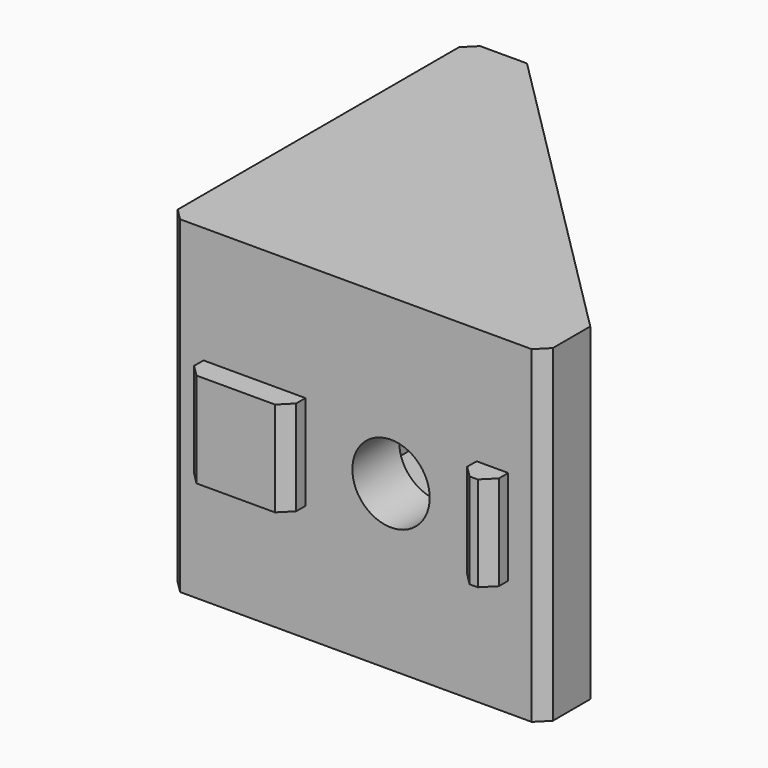
from build123d import *

# Parameters (mm, degrees)
F1_DEPTH  = 28
F2_W      = 27
F2_H      = 20
F3_DEPTH  = 27
F5_D      = 6.6
F7_D      = 6.6
F8_W      = 2.7
F8_H      = 8.1
F8_W_2    = 8.7
F9_DEPTH  = 2
F10_W     = 2.7
F10_H     = 8.1
F10_W_2   = 8.7
F11_DEPTH = 2
F12_SIZE  = 1
F13_W     = 2
F13_H     = 20
F14_DEPTH = 2.5


with BuildPart() as f1:
    # F0 (on Top) → F1 (new body)
    with BuildSketch(Plane.XY):
        Polygon((0, 32), (0, 0), (32, 0), (32, 5), (5, 32), align=None)
    extrude(amount=F1_DEPTH)

    # F2 (on face) → F3 (cut, through all)
    with BuildSketch(Plane.YZ.offset(32)):
        with Locations((18.5, 14)):
            Rectangle(F2_W, F2_H)
    extrude(amount=-F3_DEPTH, mode=Mode.SUBTRACT)

    # F5 (through all)
    with Locations(Plane.YZ.offset(5)):
        with Locations((19, 14)):
            Hole(F5_D / 2)

    # F7 (through all)
    with Locations(Plane(origin=(0, 5, 0), x_dir=(-1, 0, 0), z_dir=(0, 1, 0))):
        with Locations((-19, 14)):
            Hole(F7_D / 2)

    # F8 (on face) → F9 (join)
    with BuildSketch(Plane.XZ):
        with Locations((27.65, 14)):
            Rectangle(F8_W, F8_H)
        with Locations((7.35, 14)):
            Rectangle(F8_W_2, F8_H)
    extrude(amount=F9_DEPTH)

    # F10 (on face) → F11 (join)
    with BuildSketch(Plane(origin=(0, 0, 0), x_dir=(0, -1, 0), z_dir=(-1, 0, 0))):
        with Locations((-27.65, 14)):
            Rectangle(F10_W, F10_H)
        with Locations((-7.35, 14)):
            Rectangle(F10_W_2, F10_H)
    extrude(amount=F11_DEPTH)

    # F12
    f12_edges = [f1.edges().sort_by_distance(p)[0] for p in [
        (0, 32, 14),
        (-2, 29, 14),
        (-2, 26.3, 14),
        (-2, 11.7, 14),
        (-2, 3, 14),
        (0, 0, 14),
        (3, -2, 14),
        (11.7, -2, 14),
        (26.3, -2, 14),
        (29, -2, 14),
        (32, 0, 14),
    ]]
    chamfer(f12_edges, length=F12_SIZE)

    # F13 (on face) → F14 (join)
    with BuildSketch(Plane(origin=(18.5, 18.5, 0), x_dir=(-0.7071067812, 0.7071067812, 0), z_dir=(0.7071067812, 0.7071067812, 0))):
        with Locations((-18.091883092, 14)):
            Rectangle(F13_W, F13_H)
        with Locations((18.091883092, 14)):
            Rectangle(F13_W, F13_H)
    extrude(amount=-F14_DEPTH)


solid = f1.part
